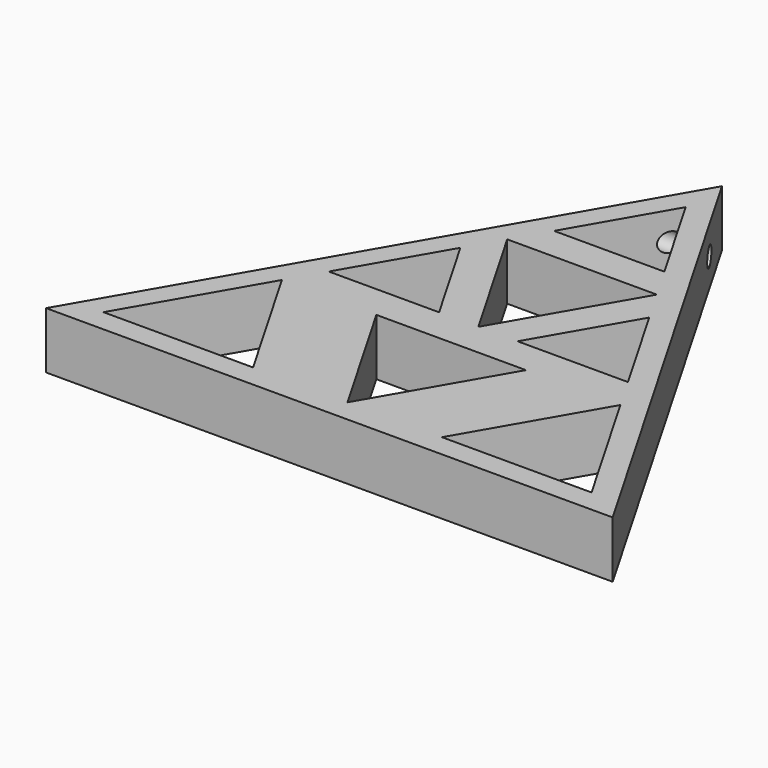
from build123d import *

# Parameters (mm, degrees)
F1_DEPTH = 3
F2_R     = 0.5
F3_DEPTH = 2.5


with BuildPart() as f1:
    # F0 (on Top) → F1 (new body)
    with BuildSketch(Plane.XY):
        Polygon((-10, 8.6602540378), (-15, 0), (15, 0), (0, 25.9807621135), (-5, 17.3205080757), align=None)
        Polygon((-5, 1.2), (-12.9215390309, 1.2), (-8.9607695155, 8.0602540378), align=None, mode=Mode.SUBTRACT)
        Polygon((0, 8.0602540378), (3.9607695155, 8.0602540378), (0, 1.2), (-3.9607695155, 8.0602540378), align=None, mode=Mode.SUBTRACT)
        Polygon((-2.0784609691, 9.8602540378), (-7.9215390309, 9.8602540378), (-5, 14.9205080757), align=None, mode=Mode.SUBTRACT)
        Polygon((12.9215390309, 1.2), (5, 1.2), (8.9607695155, 8.0602540378), align=None, mode=Mode.SUBTRACT)
        Polygon((7.9215390309, 9.8602540378), (2.0784609691, 9.8602540378), (5, 14.9205080757), align=None, mode=Mode.SUBTRACT)
        Polygon((3.9607695155, 16.7205080757), (0, 9.8602540378), (-3.9607695155, 16.7205080757), (0, 16.7205080757), align=None, mode=Mode.SUBTRACT)
        Polygon((-2.9215390309, 18.5205080757), (0, 23.5807621135), (2.9215390309, 18.5205080757), align=None, mode=Mode.SUBTRACT)
    extrude(amount=F1_DEPTH)

    # F2 (on Right) → F3 (cut, symmetric)
    with BuildSketch(Plane.YZ):
        with Locations((22.9807621135, 1.5)):
            Circle(F2_R)
    extrude(amount=F3_DEPTH, both=True, mode=Mode.SUBTRACT)


solid = f1.part
